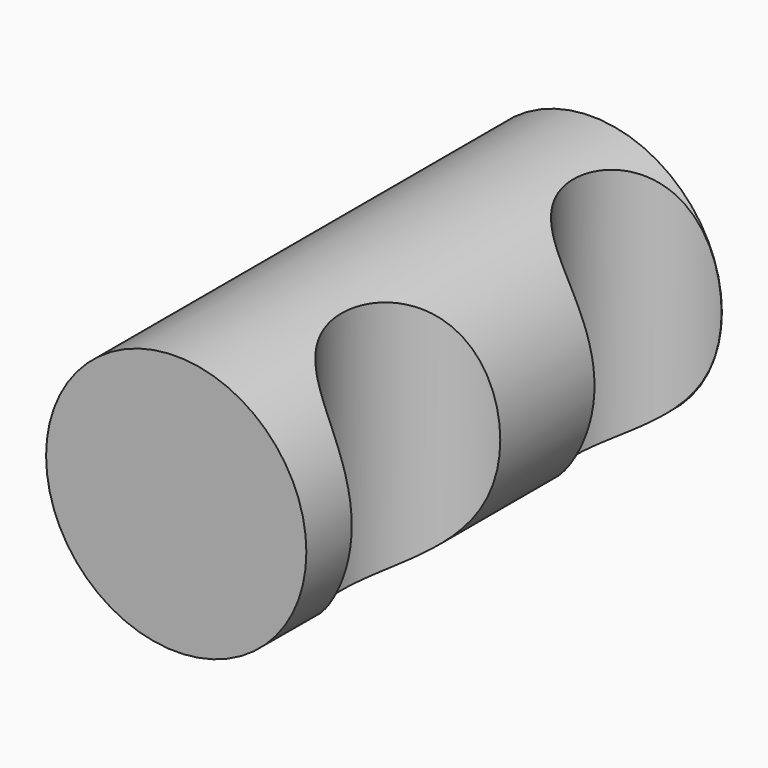
from build123d import *

# Parameters (mm, degrees)
F0_R     = 19.092225
F1_DEPTH = 38.1
F2_R     = 11.678886
F2_R_2   = 13.681336
F3_DEPTH = 56.788812


with BuildPart() as f1:
    # F0 (on Front) → F1 (new body, symmetric)
    with BuildSketch(Plane.XZ):
        with Locations((-42.910393, 37.695587)):
            Circle(F0_R)
    extrude(amount=F1_DEPTH, both=True)

    # F2 (on Top) → F3 (cut, through all)
    with BuildSketch(Plane.XY):
        with Locations((-24.569886, 26.38454)):
            Circle(F2_R)
        with Locations((-22.534795, -16.164236)):
            Circle(F2_R_2)
    extrude(amount=F3_DEPTH, mode=Mode.SUBTRACT)


solid = f1.part
